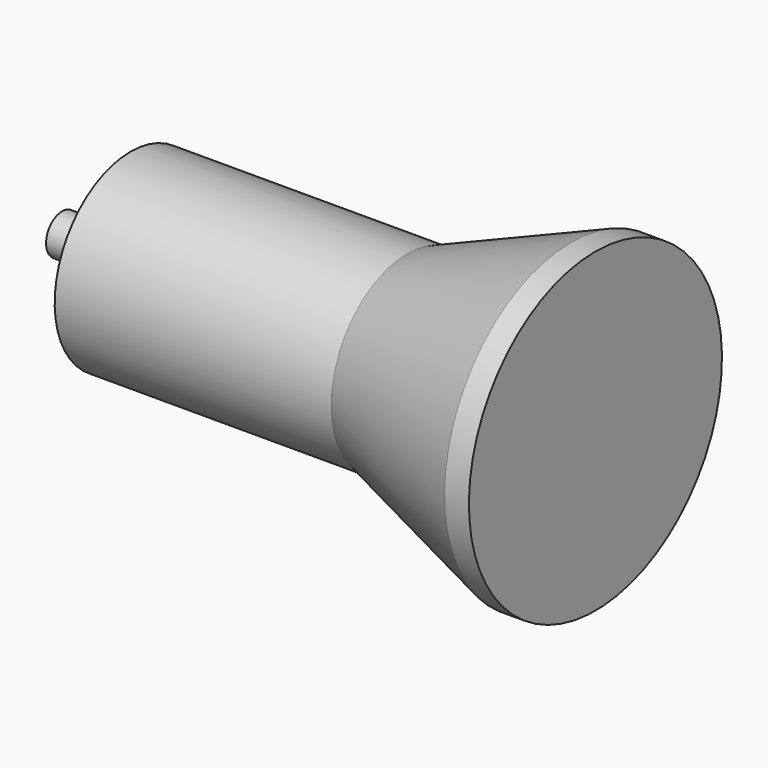
from build123d import *


with BuildPart() as f1:
    # F0 (on Front) → F1 (revolve)
    with BuildSketch(Plane.XZ):
        Polygon((-53.669118, 1.65), (-53.669118, 0), (-25.306532, 0), (-25.306532, 7.8), (-48.042347, 7.8), (-48.042347, 1.65), align=None)
        Polygon((-25.306532, 7.8), (-25.306532, 0), (-11.829118, 0), (-9.829118, 0), (-9.829118, 13), (-11.829118, 13), align=None)
    revolve(axis=Axis((-32.749118, 0, 0), (-1, 0, 0)))


solid = f1.part
